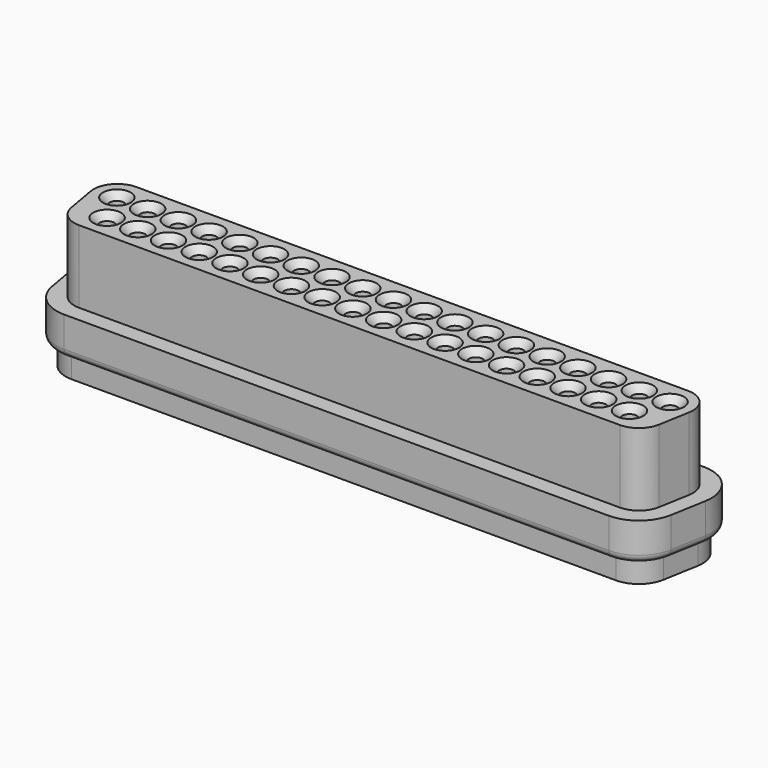
from build123d import *

# Parameters (mm, degrees)
ARRAY008_X_COUNT = 19
ARRAY008_X_PITCH = 2.77
ARRAY007_X_COUNT = 18
ARRAY007_X_PITCH = 2.77
ARRAY007_Y_COUNT = 2
ARRAY007_Y_PITCH = 100
PAD004_DEPTH     = 3.45
PAD005_DEPTH     = 2
FILLET007_R      = 0.7
PAD008_DEPTH     = 6.55
SKETCH016_R      = 0.7
PAD006_DEPTH     = 0.5
ARRAY_X_COUNT    = 19
ARRAY_X_PITCH    = 2.77
SKETCH017_R      = 0.7
PAD007_DEPTH     = 0.5
ARRAY001_X_COUNT = 18
ARRAY001_X_PITCH = 2.77


with BuildPart() as array008:
    # Sketch025 → Revolution008 (revolve)
    with BuildSketch(Plane.XZ):
        with BuildLine():
            Line((0, 6.65), (0, -10.75))
            ThreePointArc((0, -10.75), (0.212132, -10.662132), (0.3, -10.45))
            Line((0.3, -10.45), (0.3, -2))
            Line((0.3, -2), (0.65, -2))
            Line((0.65, -2), (0.65, 5.95))
            Line((0.65, 5.95), (1.35, 6.65))
            Line((1.35, 6.65), (0, 6.65))
        make_face()
    revolve(axis=Axis((0, 0, 0), (0, 0, 1)))


with BuildPart() as array008_1:
    # Body015 placement: moved
    add(array008.part.moved(Location((-24.93, 1.42, 0))))

    # Array008 X: Array008 ×19


with BuildPart() as array008_2:
    add(array008_1.part)
    with Locations(*[(i * ARRAY008_X_PITCH, 0, 0) for i in range(1, ARRAY008_X_COUNT)]):
        add(array008_1.part)


with BuildPart() as fusion003:
    # Sketch024 → Revolution007 (revolve)
    with BuildSketch(Plane.XZ):
        with BuildLine():
            Line((0, 6.65), (0, -10.75))
            ThreePointArc((0, -10.75), (0.212132, -10.662132), (0.3, -10.45))
            Line((0.3, -10.45), (0.3, -2))
            Line((0.3, -2), (0.65, -2))
            Line((0.65, -2), (0.65, 5.95))
            Line((0.65, 5.95), (1.35, 6.65))
            Line((1.35, 6.65), (0, 6.65))
        make_face()
    revolve(axis=Axis((0, 0, 0), (0, 0, 1)))


with BuildPart() as fusion003_1:
    # Body014 placement: moved
    add(fusion003.part.moved(Location((-23.545, -1.42, 0))))

    # Array007 X: Fusion003 ×18


with BuildPart() as fusion003_2:
    add(fusion003_1.part)
    with Locations(*[(i * ARRAY007_X_PITCH, 0, 0) for i in range(1, ARRAY007_X_COUNT)]):
        add(fusion003_1.part)

    # Array007 Y: Fusion003 ×2


with BuildPart() as fusion003_3:
    add(fusion003_2.part)
    with Locations(*[(0, i * ARRAY007_Y_PITCH, 0) for i in range(1, ARRAY007_Y_COUNT)]):
        add(fusion003_2.part)

    # Fusion003: union Array008
    add(array008_2.part)


with BuildPart() as body006:
    # Sketch014 → Pad004 (new body)
    with BuildSketch(Plane.XY):
        with BuildLine():
            Line((-25.11, 5), (25.11, 5))
            ThreePointArc((28.458211, 1.008831), (27.714801, 3.78518), (25.11, 5))
            Line((28.458211, 1.008831), (27.893211, -2.191169))
            ThreePointArc((24.545, -5), (26.73018, -4.204801), (27.893211, -2.191169))
            Line((24.545, -5), (-24.545, -5))
            ThreePointArc((-27.893211, -2.191169), (-26.73018, -4.204801), (-24.545, -5))
            Line((-27.893211, -2.191169), (-28.458211, 1.008831))
            ThreePointArc((-25.11, 5), (-27.714801, 3.78518), (-28.458211, 1.008831))
        make_face()
    extrude(amount=-PAD004_DEPTH)

    # Sketch015 (on Face10 of Pad004) → Pad005 (join)
    with BuildSketch(Plane(origin=(0, 0, -3.45), x_dir=(1, 0, 0), z_dir=(0, 0, -1))):
        with BuildLine():
            Line((-24.545, 4.2), (24.545, 4.2))
            ThreePointArc((27.105397, 2.05207), (26.21602, 3.591906), (24.545, 4.2))
            Line((27.105397, 2.05207), (27.670397, -1.14793))
            ThreePointArc((25.11, -4.2), (27.101906, -3.27102), (27.670397, -1.14793))
            Line((25.11, -4.2), (-25.11, -4.2))
            ThreePointArc((-27.670397, -1.14793), (-27.101906, -3.27102), (-25.11, -4.2))
            Line((-27.670397, -1.14793), (-27.105397, 2.05207))
            ThreePointArc((-24.545, 4.2), (-26.21602, 3.591906), (-27.105397, 2.05207))
        make_face()
    extrude(amount=PAD005_DEPTH)

    # Fillet007
    fillet007_edges = [body006.edges().sort_by_distance(p)[0] for p in [
        (-28.175711, -0.591169, -3.45),
    ]]
    fillet(fillet007_edges, radius=FILLET007_R)

    # Sketch022 (on Face4 of Fillet007) → Pad008 (join)
    with BuildSketch(Plane.XY):
        with BuildLine():
            Line((-24.865, 3.535), (24.865, 3.535))
            ThreePointArc((26.977437, 1.017664), (26.50812, 2.768834), (24.865, 3.535))
            Line((26.977437, 1.017664), (26.487437, -1.762336))
            ThreePointArc((24.375, -3.535), (25.753834, -3.03312), (26.487437, -1.762336))
            Line((24.375, -3.535), (-24.375, -3.535))
            ThreePointArc((-26.487437, -1.762336), (-25.753834, -3.03312), (-24.375, -3.535))
            Line((-26.487437, -1.762336), (-26.977437, 1.017664))
            ThreePointArc((-24.865, 3.535), (-26.50812, 2.768834), (-26.977437, 1.017664))
        make_face()
    extrude(amount=PAD008_DEPTH)


with BuildPart() as array:
    # Sketch016 → Pad006 (new body)
    with BuildSketch(Plane.XY):
        Circle(SKETCH016_R)
    extrude(amount=-PAD006_DEPTH)


with BuildPart() as array_1:
    # Body007 placement: moved
    add(array.part.moved(Location((-24.93, 1.42, -5.45))))

    # Array X: Array ×19


with BuildPart() as array_2:
    add(array_1.part)
    with Locations(*[(i * ARRAY_X_PITCH, 0, 0) for i in range(1, ARRAY_X_COUNT)]):
        add(array_1.part)


with BuildPart() as cut:
    # Sketch017 → Pad007 (new body)
    with BuildSketch(Plane.XY):
        Circle(SKETCH017_R)
    extrude(amount=-PAD007_DEPTH)


with BuildPart() as cut_1:
    # Body008 placement: moved
    add(cut.part.moved(Location((-23.545, -1.42, -5.45))))

    # Array001 X: Cut ×18


with BuildPart() as cut_2:
    add(cut_1.part)
    with Locations(*[(i * ARRAY001_X_PITCH, 0, 0) for i in range(1, ARRAY001_X_COUNT)]):
        add(cut_1.part)

    # Fusion: union Array
    add(array_2.part)

    # Fusion002: union Body006
    add(body006.part)

    # Cut: cut Fusion003
    add(fusion003_3.part, mode=Mode.SUBTRACT)


solid = cut_2.part
